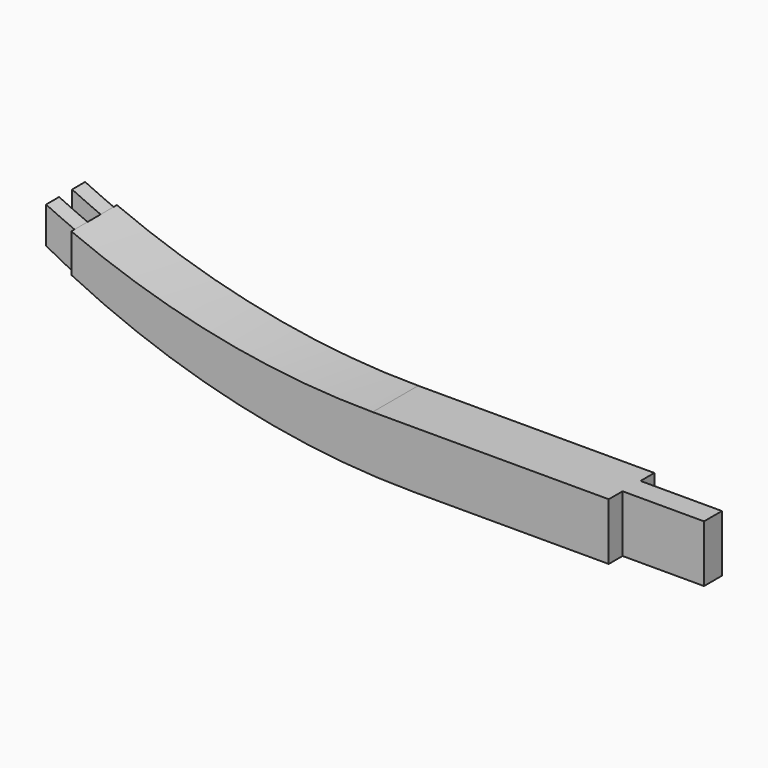
from build123d import *

# Parameters (mm, degrees)
F0_W     = 254
F0_H     = 177.8
F1_DEPTH = 34.925
F2_DEPTH = 88.9
F3_DEPTH = 76.2
F4_DEPTH = 25.4


with BuildPart() as f1:
    # F0 (on Front) → F1 (new body, symmetric)
    with BuildSketch(Plane.XZ):
        with Locations((736.6, -88.9)):
            Rectangle(F0_W, F0_H)
    extrude(amount=F1_DEPTH, both=True)

    # F0 (on Front) → F2 (join, symmetric)
    with BuildSketch(Plane.XZ):
        with BuildLine():
            Line((609.6, 0), (-127, 0))
            ThreePointArc((-127, 0), (-606.4601433609, 48.1137509537), (-1066.8, 190.5362860105))
            Line((-1066.8, 190.5362860105), (-1066.8, 70.8278600943))
            ThreePointArc((-1066.8, 70.8278600943), (-547.6947262881, -114.8211673081), (0, -177.8))
            Line((0, -177.8), (609.6, -177.8))
            Line((609.6, -177.8), (609.6, 0))
        make_face()
    extrude(amount=F2_DEPTH, both=True)

    # F0 (on Front) → F3 (join, symmetric)
    with BuildSketch(Plane.XZ):
        with BuildLine():
            Line((-1066.8, 70.8278600943), (-1066.8, 190.5362860105))
            ThreePointArc((-1066.8, 190.5362860105), (-1111.4504024994, 209.9506576069), (-1155.7, 230.2619694521))
            Line((-1155.7, 230.2619694521), (-1155.7, 116.963348915))
            ThreePointArc((-1155.7, 116.963348915), (-1111.4893986594, 93.4342993063), (-1066.8, 70.8278600943))
        make_face()
    extrude(amount=F3_DEPTH, both=True)

    # F0 (on Front) → F4 (cut, symmetric)
    with BuildSketch(Plane.XZ):
        with BuildLine():
            Line((-1066.8, 70.8278600943), (-1066.8, 190.5362860105))
            ThreePointArc((-1066.8, 190.5362860105), (-1111.4504024994, 209.9506576069), (-1155.7, 230.2619694521))
            Line((-1155.7, 230.2619694521), (-1155.7, 116.963348915))
            ThreePointArc((-1155.7, 116.963348915), (-1111.4893986594, 93.4342993063), (-1066.8, 70.8278600943))
        make_face()
    extrude(amount=F4_DEPTH, both=True, mode=Mode.SUBTRACT)


solid = f1.part
